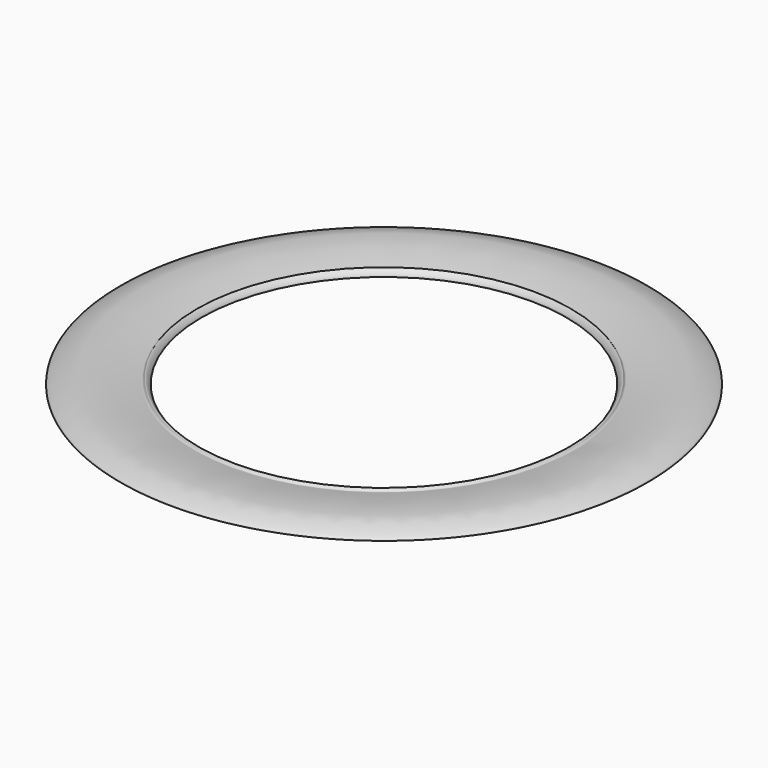
from build123d import *


with BuildPart() as f1:
    # F0 (on Front) → F1 (revolve)
    with BuildSketch(Plane.XZ):
        with BuildLine():
            add(Edge.make_bspline(
                [(1.7628526548, 7.2074639611), (2.3036472682, 7.2550254941), (2.6695187512, 4.9752709814), (7.5022511582, 6.8127933081), (21.4128327847, 9.1149952571), (27.1518388798, 9.2370545679), (36.4994380914, 9.7609693181), (44.671480766, 8.0564666902), (49.5947816835, 6.2508963942), (52.2196903365, 4.8402451975), (53.8404029473, 4.0044927816), (54.0398900217, 2.7834346726), (52.3052976981, 2.3616962205), (50.5233140612, 2.7916472063), (45.2926581935, 2.2587747277), (10.5366829197, 3.3837849737), (3.1584954028, 2.102399863), (1.13101815, 3.6172075254), (0.1553308185, 2.5659641887), (-2.3234816894, 2.8897561591), (0.8355966262, 7.1259141137), (1.7628526548, 7.2074639611)],
                knots=[0, 0, 0, 0, 0.0315546418, 0.0814847029, 0.1740292558, 0.2350965824, 0.3084101346, 0.380001485, 0.4354371396, 0.4773478712, 0.5091179516, 0.5314304432, 0.5610288267, 0.5919238002, 0.6472386702, 0.7925904479, 0.8597222886, 0.8914522812, 0.9186335884, 0.945895852, 1, 1, 1, 1], degree=3))
        make_face()
    revolve(axis=Axis((-124.0375563502, 0, -1.437895), (0, 0, -1)))


solid = f1.part
